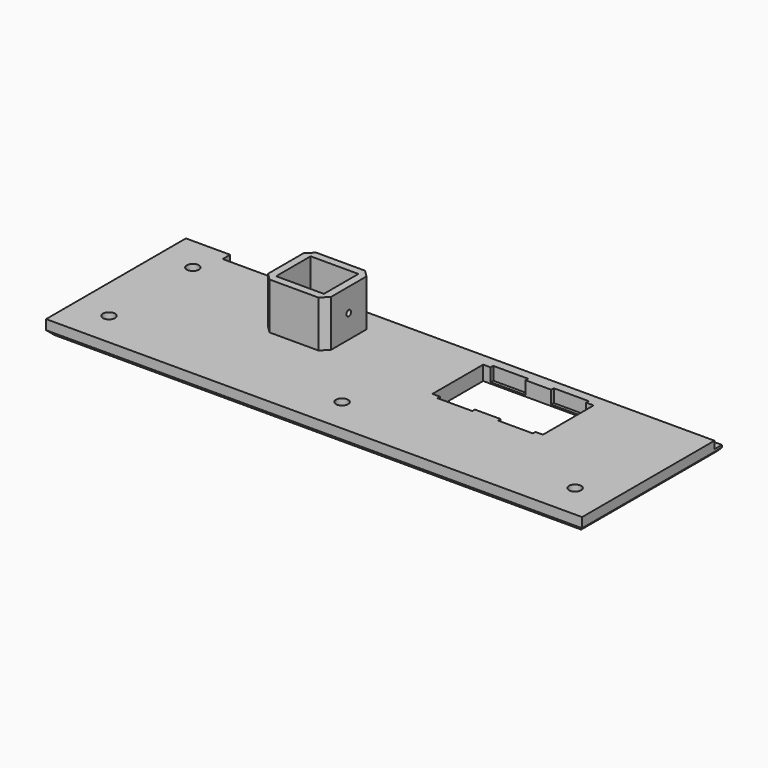
from build123d import *

# Parameters (mm, degrees)
SKETCH_W        = 230
SKETCH_H        = 75
PAD_DEPTH       = 6.2
SKETCH001_W     = 211
SKETCH001_H     = 4
POCKET_DEPTH    = 3.2
CHAMFER_SIZE    = 2
SKETCH002_R     = 2.6
POCKET001_DEPTH = 10
SKETCH003_W     = 47.4
SKETCH003_H     = 27.2
POCKET002_DEPTH = 7
SKETCH004_W     = 15
SKETCH004_H     = 30
POCKET003_DEPTH = 5.6
SKETCH005_W     = 16
SKETCH005_H     = 13.2
POCKET004_DEPTH = 8
SKETCH006_W     = 20.5
SKETCH006_H     = 18.5
POCKET005_DEPTH = 5.6
SKETCH007_W     = 27
SKETCH007_H     = 25
SKETCH007_W_2   = 20.5
SKETCH007_H_2   = 18.5
PAD001_DEPTH    = 20
CHAMFER001_SIZE = 3
SKETCH008_R     = 1.25
POCKET006_DEPTH = 30


with BuildPart() as part:
    # Sketch → Pad (new body)
    with BuildSketch(Plane.XY):
        Rectangle(SKETCH_W, SKETCH_H)
    extrude(amount=PAD_DEPTH)

    # Sketch001 (on Face6 of Pad) → Pocket (cut)
    with BuildSketch(Plane.XY.offset(6.2)):
        with Locations((9.5, 35.5)):
            Rectangle(SKETCH001_W, SKETCH001_H)
    extrude(amount=-POCKET_DEPTH, mode=Mode.SUBTRACT)

    # Chamfer
    chamfer_edges = [part.edges().sort_by_distance(p)[0] for p in [
        (-115, 0, 0),
        (0, -37.5, 0),
        (115, 0, 0),
    ]]
    chamfer(chamfer_edges, length=CHAMFER_SIZE)

    # Sketch002 (on Face4 of Chamfer) → Pocket001 (cut)
    with BuildSketch(Plane.XY.offset(6.2)):
        with Locations((-100, -22.5)):
            Circle(SKETCH002_R)
        with Locations((0, -22.5)):
            Circle(SKETCH002_R)
        with Locations((100, -22.5)):
            Circle(SKETCH002_R)
        with Locations((-100, 22.5)):
            Circle(SKETCH002_R)
    extrude(amount=-POCKET001_DEPTH, mode=Mode.SUBTRACT)

    # Sketch003 (on Face8 of Pocket001) → Pocket002 (cut)
    with BuildSketch(Plane(origin=(0, 0, 0), x_dir=(1, 0, 0), z_dir=(0, 0, -1))):
        with Locations((43.7, -14.6)):
            Rectangle(SKETCH003_W, SKETCH003_H)
    extrude(amount=-POCKET002_DEPTH, mode=Mode.SUBTRACT)

    # Sketch004 (on Face4 of Pocket002) → Pocket003 (cut)
    with BuildSketch(Plane.XY.offset(6.2)):
        with Locations((30.7, 14.6)):
            Rectangle(SKETCH004_W, SKETCH004_H)
        with Locations((56.7, 14.6)):
            Rectangle(SKETCH004_W, SKETCH004_H)
    extrude(amount=-POCKET003_DEPTH, mode=Mode.SUBTRACT)

    # Sketch005 (on Face4 of Pocket003) → Pocket004 (cut)
    with BuildSketch(Plane.XY.offset(6.2)):
        with Locations((-40, 14.2)):
            Rectangle(SKETCH005_W, SKETCH005_H)
    extrude(amount=-POCKET004_DEPTH, mode=Mode.SUBTRACT)

    # Sketch006 (on Face4 of Pocket004) → Pocket005 (cut)
    with BuildSketch(Plane.XY.offset(6.2)):
        with Locations((-40, 14.2)):
            Rectangle(SKETCH006_W, SKETCH006_H)
    extrude(amount=-POCKET005_DEPTH, mode=Mode.SUBTRACT)

    # Sketch007 (on Face4 of Pocket005) → Pad001 (join)
    with BuildSketch(Plane.XY.offset(6.2)):
        with Locations((-40, 14.2)):
            Rectangle(SKETCH007_W, SKETCH007_H)
        with Locations((-40, 14.2)):
            Rectangle(SKETCH007_W_2, SKETCH007_H_2, mode=Mode.SUBTRACT)
    extrude(amount=PAD001_DEPTH)

    # Chamfer001
    chamfer001_edges = [part.edges().sort_by_distance(p)[0] for p in [
        (-53.5, 1.7, 16.2),
        (-26.5, 1.7, 16.2),
        (-53.5, 26.7, 16.2),
        (-26.5, 26.7, 16.2),
    ]]
    chamfer(chamfer001_edges, length=CHAMFER001_SIZE)

    # Sketch008 (on Face5 of Chamfer001) → Pocket006 (cut)
    with BuildSketch(Plane(origin=(-53.5, 0, 0), x_dir=(0, -1, 0), z_dir=(-1, 0, 0))):
        with Locations((-14.2, 16.2)):
            Circle(SKETCH008_R)
    extrude(amount=-POCKET006_DEPTH, mode=Mode.SUBTRACT)


solid = part.part
